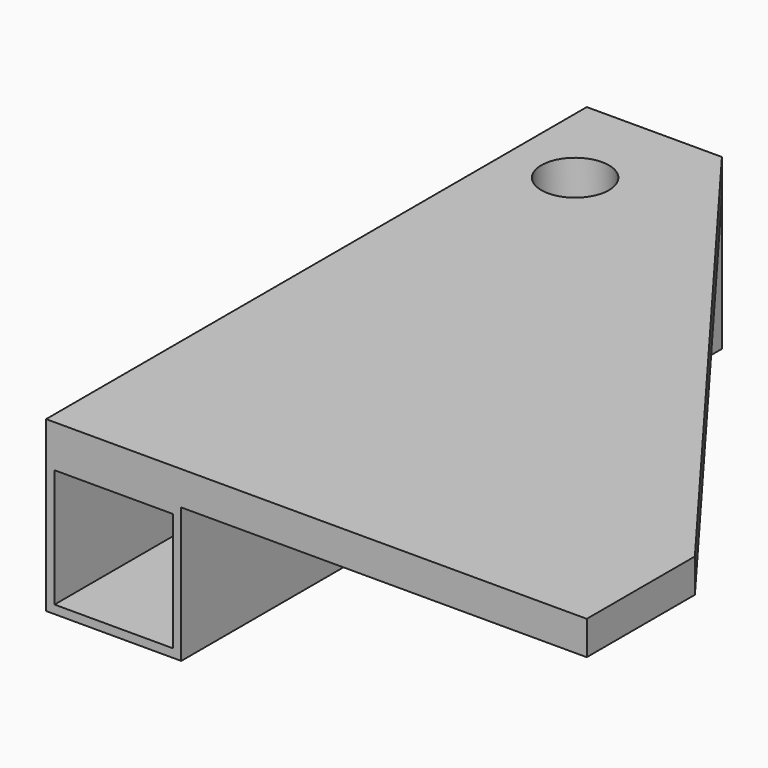
from build123d import *

# Parameters (mm, degrees)
F0_W     = 25.4
F0_H     = 127
F1_DEPTH = 25.4
F2_T     = -1.5875
F3_W     = 25.4
F3_H     = 127
F4_DEPTH = 6.35
F5_R     = 6.35
F6_DEPTH = 31.751


with BuildPart() as f1:
    # F0 (on Top) → F1 (new body)
    with BuildSketch(Plane.XY):
        Rectangle(F0_W, F0_H)
    extrude(amount=F1_DEPTH)

    # F2
    f2_openings = [f1.faces().sort_by_distance(p)[0] for p in [
        (0, -63.5, 12.7),
    ]]
    offset(amount=F2_T, openings=f2_openings)

    # F3 (on face) → F4 (join)
    with BuildSketch(Plane.XY.offset(25.4)):
        Rectangle(F3_W, F3_H)
        Polygon((88.9, -38.1), (12.7, 63.5), (12.7, -63.5), (88.9, -63.5), align=None)
    extrude(amount=F4_DEPTH)

    # F5 (on face) → F6 (cut, through all)
    with BuildSketch(Plane(origin=(0, 0, 0), x_dir=(1, 0, 0), z_dir=(0, 0, -1))):
        with Locations((0, -44.897698)):
            Circle(F5_R)
    extrude(amount=-F6_DEPTH, mode=Mode.SUBTRACT)


solid = f1.part
